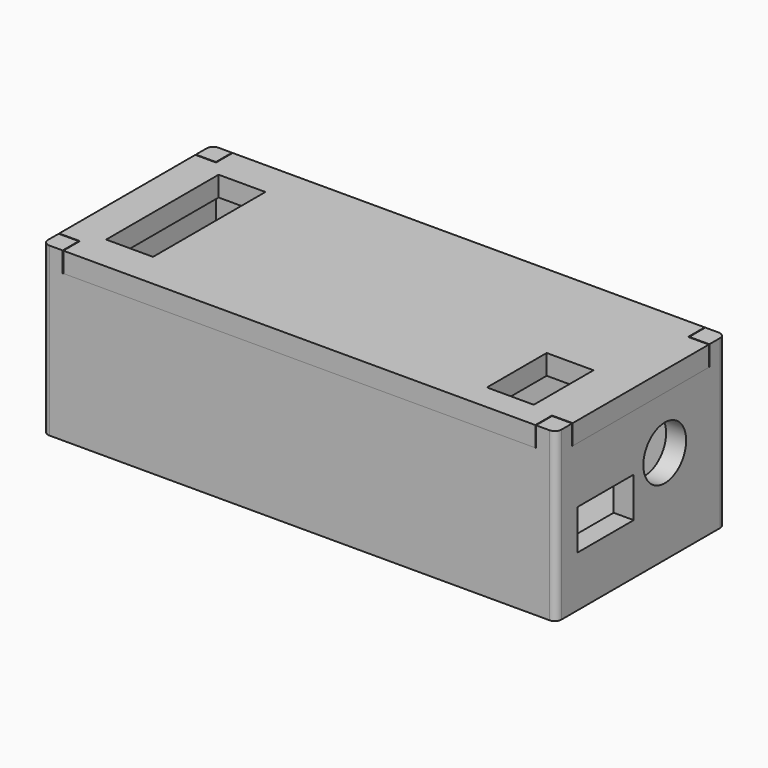
from build123d import *

# Parameters (mm, degrees)
SKETCH_W        = 76.748
SKETCH_H        = 31.63
PAD_DEPTH       = 2
SKETCH001_R     = 3
SKETCH001_R_2   = 1.35
PAD001_DEPTH    = 4
SKETCH002_W     = 76.748
SKETCH002_H     = 31.63
SKETCH002_W_2   = 70.748
SKETCH002_H_2   = 25.63
PAD002_DEPTH    = 20
SKETCH003_W     = 3
SKETCH003_H     = 3
PAD003_DEPTH    = 3
SKETCH004_W     = 22
SKETCH004_H     = 6
POCKET_DEPTH    = 3
SKETCH005_R     = 4
SKETCH005_W     = 10.5
SKETCH005_H     = 6
POCKET001_DEPTH = 3
FILLET_R        = 1
FILLET001_R     = 0.75
PAD004_DEPTH    = 3
SKETCH007_W     = 7
SKETCH007_H     = 21
SKETCH007_H_2   = 11.16
POCKET002_DEPTH = 3.001


with BuildPart() as body:
    # Sketch → Pad (new body)
    with BuildSketch(Plane.XY):
        with Locations((38.374, 15.815)):
            Rectangle(SKETCH_W, SKETCH_H)
    extrude(amount=-PAD_DEPTH)

    # Sketch001 (on Face5 of Pad) → Pad001 (join)
    with BuildSketch(Plane.XY):
        with Locations((19.625, 24.07)):
            Circle(SKETCH001_R)
        with Locations((19.625, 24.07)):
            Circle(SKETCH001_R_2, mode=Mode.SUBTRACT)
        with Locations((57.09, 7.687)):
            Circle(SKETCH001_R)
        with Locations((57.09, 7.687)):
            Circle(SKETCH001_R_2, mode=Mode.SUBTRACT)
    extrude(amount=PAD001_DEPTH)

    # Sketch002 (on Face4 of Pad001) → Pad002 (join)
    with BuildSketch(Plane.XY):
        with Locations((38.374, 15.815)):
            Rectangle(SKETCH002_W, SKETCH002_H)
        with Locations((38.374, 15.815)):
            Rectangle(SKETCH002_W_2, SKETCH002_H_2, mode=Mode.SUBTRACT)
    extrude(amount=PAD002_DEPTH)

    # Sketch003 (on Face9 of Pad002) → Pad003 (join)
    with BuildSketch(Plane.XY.offset(20)):
        with Locations((1.5, 30.13)):
            Rectangle(SKETCH003_W, SKETCH003_H)
        with Locations((75.248, 30.13)):
            Rectangle(SKETCH003_W, SKETCH003_H)
        with Locations((75.248, 1.5)):
            Rectangle(SKETCH003_W, SKETCH003_H)
        with Locations((1.5, 1.5)):
            Rectangle(SKETCH003_W, SKETCH003_H)
    extrude(amount=PAD003_DEPTH)

    # Sketch004 (on Face7 of Pad003) → Pocket (cut)
    with BuildSketch(Plane(origin=(0, 0, 0), x_dir=(0, -1, 0), z_dir=(-1, 0, 0))):
        with Locations((-15.815, 8.6)):
            Rectangle(SKETCH004_W, SKETCH004_H)
    extrude(amount=-POCKET_DEPTH, mode=Mode.SUBTRACT)

    # Sketch005 (on Face8 of Pocket) → Pocket001 (cut)
    with BuildSketch(Plane.YZ.offset(76.748)):
        with Locations((20.3, 12.1)):
            Circle(SKETCH005_R)
        with Locations((9.25, 8.6)):
            Rectangle(SKETCH005_W, SKETCH005_H)
    extrude(amount=-POCKET001_DEPTH, mode=Mode.SUBTRACT)

    # Fillet
    fillet_edges = [body.edges().sort_by_distance(p)[0] for p in [
        (76.748, 31.63, 10),
        (76.748, 0, 10),
        (0, 0, 10),
        (0, 31.63, 10),
    ]]
    fillet(fillet_edges, radius=FILLET_R)

    # Fillet001
    fillet001_edges = [body.edges().sort_by_distance(p)[0] for p in [
        (55.74, 7.687, 4),
        (18.275, 24.07, 4),
    ]]
    fillet(fillet001_edges, radius=FILLET001_R)


with BuildPart() as topcover:
    # Sketch006 → Pad004 (new body)
    with BuildSketch(Plane.XY):
        Polygon((3.1, 31.63), (3.1, 28.53), (0, 28.53), (0, 3.1), (3.1, 3.1), (3.1, 0), (73.648, 0), (73.648, 3.1), (76.748, 3.1), (76.748, 28.53), (73.648, 28.53), (73.648, 31.63), align=None)
    extrude(amount=PAD004_DEPTH)

    # Sketch007 (on Face14 of Pad004) → Pocket002 (cut, through all)
    with BuildSketch(Plane.XY.offset(3)):
        with Locations((8.75, 15.815)):
            Rectangle(SKETCH007_W, SKETCH007_H)
        with Locations((66.798, 9.47)):
            Rectangle(SKETCH007_W, SKETCH007_H_2)
    extrude(amount=-POCKET002_DEPTH, mode=Mode.SUBTRACT)


with BuildPart() as topcover_1:
    # Body001 placement: moved
    add(topcover.part.moved(Location((0, 0, 20))))


solid = Compound([body.part, topcover_1.part])
